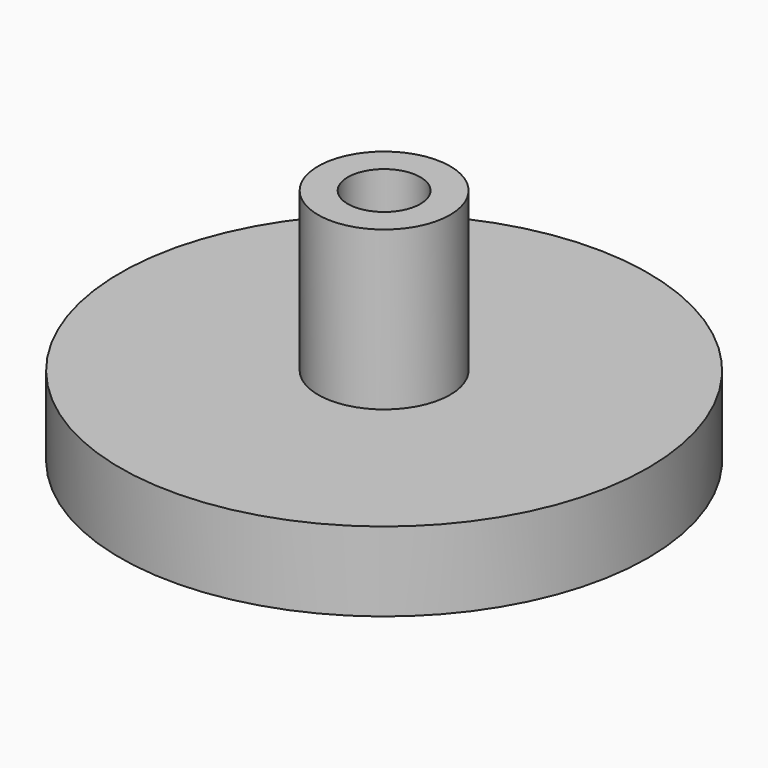
from build123d import *

# Parameters (mm, degrees)
F0_R     = 20
F1_DEPTH = 6
F2_R     = 5
F3_DEPTH = 12
F4_R     = 2.75
F5_DEPTH = 18.001
F6_R     = 5
F7_DEPTH = 5


with BuildPart() as f1:
    # F0 (on Top) → F1 (new body)
    with BuildSketch(Plane.XY):
        Circle(F0_R)
    extrude(amount=F1_DEPTH)

    # F2 (on face) → F3 (join)
    with BuildSketch(Plane.XY.offset(6)):
        Circle(F2_R)
    extrude(amount=F3_DEPTH)

    # F4 (on face) → F5 (cut, through all)
    with BuildSketch(Plane.XY.offset(18)):
        Circle(F4_R)
    extrude(amount=-F5_DEPTH, mode=Mode.SUBTRACT)

    # F6 (on face) → F7 (cut)
    with BuildSketch(Plane.XY):
        Circle(F6_R)
    extrude(amount=F7_DEPTH, mode=Mode.SUBTRACT)


solid = f1.part
